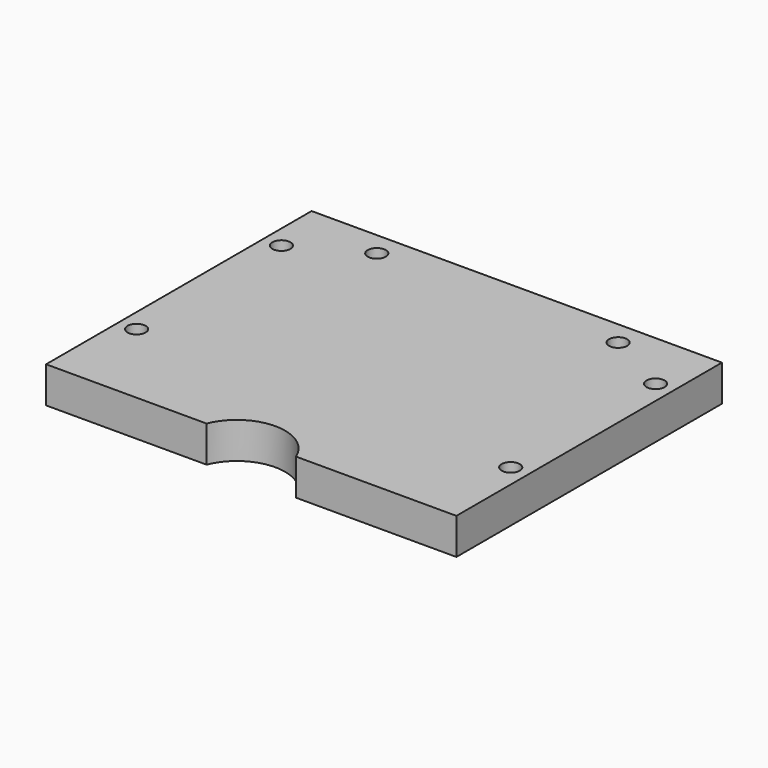
from build123d import *

# Parameters (mm, degrees)
CYLINDER1914_R               = 1.5
CYLINDER1914_DEPTH           = 50
CYLINDER1914_PLACEMENT_ANGLE = 45
CYLINDER1915_R               = 1.5
CYLINDER1915_DEPTH           = 50
CYLINDER1915_PLACEMENT_ANGLE = 45
CYLINDER1921_R               = 1.5
CYLINDER1921_DEPTH           = 50
CYLINDER1921_PLACEMENT_ANGLE = 45
CYLINDER1920_R               = 1.5
CYLINDER1920_DEPTH           = 50
CYLINDER1920_PLACEMENT_ANGLE = 45
CYLINDER1930_R               = 1.5
CYLINDER1930_DEPTH           = 50
CYLINDER1930_PLACEMENT_ANGLE = 45
CYLINDER1929_R               = 1.5
CYLINDER1929_DEPTH           = 50
CYLINDER1929_PLACEMENT_ANGLE = 45
CYLINDER1956_R               = 3
CYLINDER1956_DEPTH           = 3
CYLINDER1956_PLACEMENT_ANGLE = 45
CYLINDER1957_R               = 3
CYLINDER1957_DEPTH           = 3
CYLINDER1957_PLACEMENT_ANGLE = 45
CYLINDER1960_R               = 3
CYLINDER1960_DEPTH           = 3
CYLINDER1960_PLACEMENT_ANGLE = 45
CYLINDER1961_R               = 3
CYLINDER1961_DEPTH           = 3
CYLINDER1961_PLACEMENT_ANGLE = 45
CYLINDER1958_R               = 3
CYLINDER1958_DEPTH           = 3
CYLINDER1958_PLACEMENT_ANGLE = 45
CYLINDER1959_R               = 3
CYLINDER1959_DEPTH           = 3
CYLINDER1959_PLACEMENT_ANGLE = 45
CYLINDER1926_R               = 8
CYLINDER1926_DEPTH           = 6
BOX802_W                     = 68
BOX802_H                     = 55
BOX802_DEPTH                 = 6


with BuildPart() as obj1:
    # Cylinder1914 → Cylinder1914 (new body)
    with BuildSketch(Plane.XY):
        Circle(CYLINDER1914_R)
    extrude(amount=CYLINDER1914_DEPTH)


with BuildPart() as obj1_1:
    # Cylinder1914 placement: moved
    add(obj1.part.moved(Location((20, 137, 0))).rotate(Axis((20, 137, 0), (0, 0, 1)), CYLINDER1914_PLACEMENT_ANGLE))


with BuildPart() as compound961:
    # Cylinder1915 → Cylinder1915 (new body)
    with BuildSketch(Plane.XY):
        Circle(CYLINDER1915_R)
    extrude(amount=CYLINDER1915_DEPTH)


with BuildPart() as compound961_1:
    # Cylinder1915 placement: moved
    add(compound961.part.moved(Location((-20, 137, 0))).rotate(Axis((-20, 137, 0), (0, 0, 1)), CYLINDER1915_PLACEMENT_ANGLE))

    # Compound961: union obj1
    add(obj1_1.part)


with BuildPart() as obj2:
    # Cylinder1921 → Cylinder1921 (new body)
    with BuildSketch(Plane.XY):
        Circle(CYLINDER1921_R)
    extrude(amount=CYLINDER1921_DEPTH)


with BuildPart() as obj2_1:
    # Cylinder1921 placement: moved
    add(obj2.part.moved(Location((31, 131, 0))).rotate(Axis((31, 131, 0), (0, 0, 1)), CYLINDER1921_PLACEMENT_ANGLE))


with BuildPart() as compound964:
    # Cylinder1920 → Cylinder1920 (new body)
    with BuildSketch(Plane.XY):
        Circle(CYLINDER1920_R)
    extrude(amount=CYLINDER1920_DEPTH)


with BuildPart() as compound964_1:
    # Cylinder1920 placement: moved
    add(compound964.part.moved(Location((-31, 131, 0))).rotate(Axis((-31, 131, 0), (0, 0, 1)), CYLINDER1920_PLACEMENT_ANGLE))

    # Compound964: union obj2
    add(obj2_1.part)


with BuildPart() as obj3:
    # Cylinder1930 → Cylinder1930 (new body)
    with BuildSketch(Plane.XY):
        Circle(CYLINDER1930_R)
    extrude(amount=CYLINDER1930_DEPTH)


with BuildPart() as obj3_1:
    # Cylinder1930 placement: moved
    add(obj3.part.moved(Location((31, 101, 0))).rotate(Axis((31, 101, 0), (0, 0, 1)), CYLINDER1930_PLACEMENT_ANGLE))


with BuildPart() as compound990:
    # Cylinder1929 → Cylinder1929 (new body)
    with BuildSketch(Plane.XY):
        Circle(CYLINDER1929_R)
    extrude(amount=CYLINDER1929_DEPTH)


with BuildPart() as compound990_1:
    # Cylinder1929 placement: moved
    add(compound990.part.moved(Location((-31, 101, 0))).rotate(Axis((-31, 101, 0), (0, 0, 1)), CYLINDER1929_PLACEMENT_ANGLE))

    # Compound970: union obj3
    add(obj3_1.part)

    # Compound990: union Compound961, Compound964
    add(compound961_1.part)
    add(compound964_1.part)


with BuildPart() as obj4:
    # Cylinder1956 → Cylinder1956 (new body)
    with BuildSketch(Plane.XY):
        Circle(CYLINDER1956_R)
    extrude(amount=CYLINDER1956_DEPTH)


with BuildPart() as obj4_1:
    # Cylinder1956 placement: moved
    add(obj4.part.moved(Location((31, 131, 0))).rotate(Axis((31, 131, 0), (0, 0, 1)), CYLINDER1956_PLACEMENT_ANGLE))


with BuildPart() as compound987:
    # Cylinder1957 → Cylinder1957 (new body)
    with BuildSketch(Plane.XY):
        Circle(CYLINDER1957_R)
    extrude(amount=CYLINDER1957_DEPTH)


with BuildPart() as compound987_1:
    # Cylinder1957 placement: moved
    add(compound987.part.moved(Location((-31, 131, 0))).rotate(Axis((-31, 131, 0), (0, 0, 1)), CYLINDER1957_PLACEMENT_ANGLE))

    # Compound987: union obj4
    add(obj4_1.part)


with BuildPart() as compound987_2:
    # Compound987 placement: moved
    add(compound987_1.part.moved(Location((0, 0, 25))))


with BuildPart() as obj5:
    # Cylinder1960 → Cylinder1960 (new body)
    with BuildSketch(Plane.XY):
        Circle(CYLINDER1960_R)
    extrude(amount=CYLINDER1960_DEPTH)


with BuildPart() as obj5_1:
    # Cylinder1960 placement: moved
    add(obj5.part.moved(Location((31, 101, 0))).rotate(Axis((31, 101, 0), (0, 0, 1)), CYLINDER1960_PLACEMENT_ANGLE))


with BuildPart() as compound988:
    # Cylinder1961 → Cylinder1961 (new body)
    with BuildSketch(Plane.XY):
        Circle(CYLINDER1961_R)
    extrude(amount=CYLINDER1961_DEPTH)


with BuildPart() as compound988_1:
    # Cylinder1961 placement: moved
    add(compound988.part.moved(Location((-31, 101, 0))).rotate(Axis((-31, 101, 0), (0, 0, 1)), CYLINDER1961_PLACEMENT_ANGLE))

    # Compound988: union obj5
    add(obj5_1.part)


with BuildPart() as compound988_2:
    # Compound988 placement: moved
    add(compound988_1.part.moved(Location((0, 0, 21))))


with BuildPart() as obj6:
    # Cylinder1958 → Cylinder1958 (new body)
    with BuildSketch(Plane.XY):
        Circle(CYLINDER1958_R)
    extrude(amount=CYLINDER1958_DEPTH)


with BuildPart() as obj6_1:
    # Cylinder1958 placement: moved
    add(obj6.part.moved(Location((20, 137, 0))).rotate(Axis((20, 137, 0), (0, 0, 1)), CYLINDER1958_PLACEMENT_ANGLE))


with BuildPart() as compound989:
    # Cylinder1959 → Cylinder1959 (new body)
    with BuildSketch(Plane.XY):
        Circle(CYLINDER1959_R)
    extrude(amount=CYLINDER1959_DEPTH)


with BuildPart() as compound989_1:
    # Cylinder1959 placement: moved
    add(compound989.part.moved(Location((-20, 137, 0))).rotate(Axis((-20, 137, 0), (0, 0, 1)), CYLINDER1959_PLACEMENT_ANGLE))

    # Compound986: union obj6
    add(obj6_1.part)


with BuildPart() as compound989_2:
    # Compound986 placement: moved
    add(compound989_1.part.moved(Location((0, 0, 25))))

    # Compound989: union Compound987, Compound988
    add(compound987_2.part)
    add(compound988_2.part)


with BuildPart() as obj7:
    # Cylinder1926 → Cylinder1926 (new body)
    with BuildSketch(Plane(origin=(0, 83, 25), x_dir=(1, 0, 0), z_dir=(0, 0, 1))):
        Circle(CYLINDER1926_R)
    extrude(amount=CYLINDER1926_DEPTH)


with BuildPart() as cut621:
    # Box802 → Box802 (new body)
    with BuildSketch(Plane(origin=(-34, 86, 25), x_dir=(1, 0, 0), z_dir=(0, 0, 1))):
        with Locations((34, 27.5)):
            Rectangle(BOX802_W, BOX802_H)
    extrude(amount=BOX802_DEPTH)

    # Cut614: cut obj7
    add(obj7.part, mode=Mode.SUBTRACT)

    # Cut620: cut Compound989
    add(compound989_2.part, mode=Mode.SUBTRACT)

    # Cut621: cut Compound990
    add(compound990_1.part, mode=Mode.SUBTRACT)


solid = cut621.part
